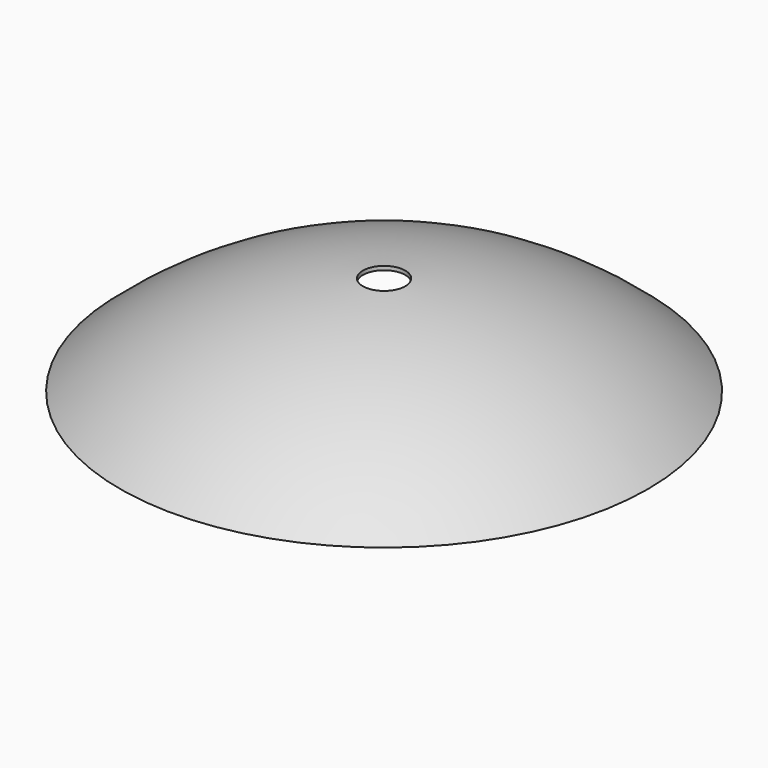
from build123d import *

# Parameters (mm, degrees)
F2_T     = 1
F3_R     = 5.5
F4_DEPTH = 13.501


with BuildPart() as f1:
    # F0 (on Front) → F1 (revolve)
    with BuildSketch(Plane.XZ):
        with BuildLine():
            Line((0, 12.5), (0, -12.5))
            Line((0, -12.5), (67, -12.5))
            ThreePointArc((67, -12.5), (35.7561183576, 6.0463971983), (0, 12.5))
        make_face()
    revolve(axis=Axis((0, 0, 0), (0, 0, -1)))

    # F2
    f2_openings = [f1.faces().sort_by_distance(p)[0] for p in [
        (0, 0, -12.5),
    ]]
    offset(amount=F2_T, openings=f2_openings)

    # F3 (on Top) → F4 (cut, through all)
    with BuildSketch(Plane.XY):
        Circle(F3_R)
    extrude(amount=F4_DEPTH, mode=Mode.SUBTRACT)


solid = f1.part
